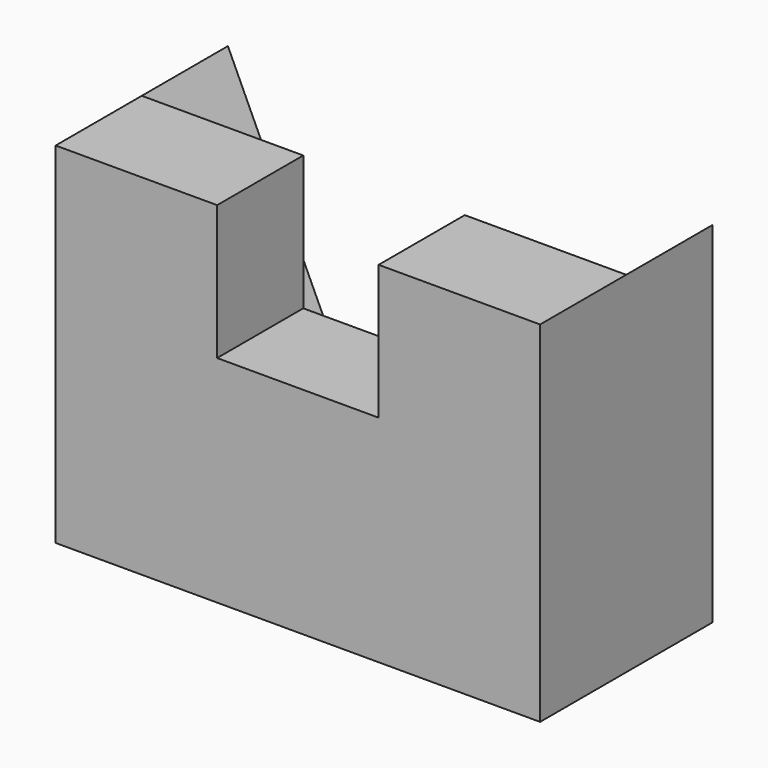
from build123d import *

# Parameters (mm, degrees)
F1_DEPTH = 200
F3_DEPTH = 200


with BuildPart() as f1:
    # F0 (on Front) → F1 (new body)
    with BuildSketch(Plane.XZ):
        Polygon((-150, 325), (-450, 325), (-450, -325), (450, -325), (450, 325), (150, 325), (150, 75), (-150, 75), align=None)
    extrude(amount=F1_DEPTH)

    # F2 (on face) → F3 (join)
    with BuildSketch(Plane(origin=(0, 0, 0), x_dir=(-1, 0, 0), z_dir=(0, 1, 0))):
        Polygon((450, -325), (450, 325), (150, -325), align=None)
        Polygon((-150, -325), (-450, 325), (-450, -325), align=None)
    extrude(amount=F3_DEPTH)


solid = f1.part
